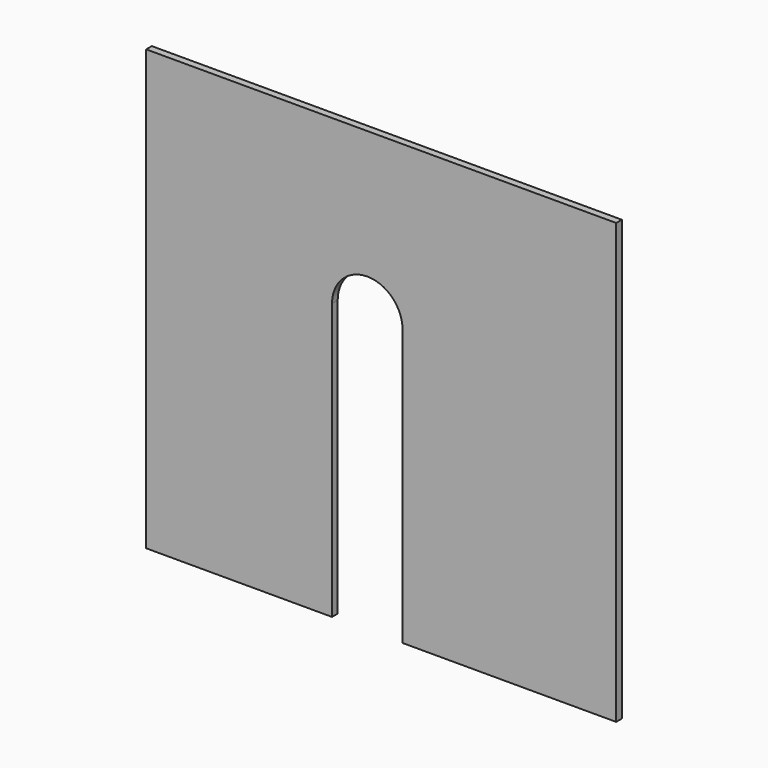
from build123d import *

# Parameters (mm, degrees)
F0_W     = 66.633955
F0_H     = 62.271908
F1_DEPTH = 1
F3_DEPTH = 1.001


with BuildPart() as f1:
    # F0 (on Front) → F1 (new body)
    with BuildSketch(Plane.XZ):
        with Locations((33.316978, 31.135954)):
            Rectangle(F0_W, F0_H)
    extrude(amount=F1_DEPTH)

    # F2 (on face) → F3 (cut, through all)
    with BuildSketch(Plane.XZ.offset(1)):
        with BuildLine():
            Line((31.349327, 0), (36.349327, 0))
            Line((36.349327, 0), (36.349327, 39.112926))
            ThreePointArc((36.349327, 39.112926), (31.349327, 44.112926), (26.349327, 39.112926))
            Line((26.349327, 39.112926), (26.349327, 0))
            Line((26.349327, 0), (31.349327, 0))
        make_face()
    extrude(amount=-F3_DEPTH, mode=Mode.SUBTRACT)


solid = f1.part
